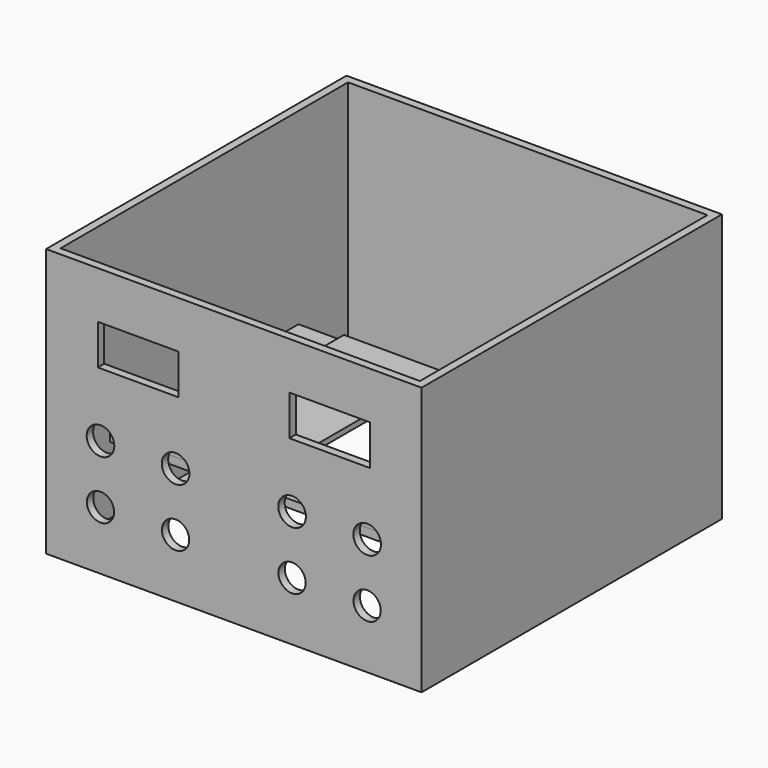
from build123d import *

# Parameters (mm, degrees)
F0_W     = 140
F0_H     = 140
F0_R     = 1.8690060527
F0_W_2   = 7
F0_H_2   = 71.0464436561
F0_H_3   = 8.3500510082
F1_DEPTH = 2
F2_START = 2
F2_DEPTH = 98
F3_START = 27
F0_W_3   = 120
F0_R_2   = 2.6331216757
F0_R_3   = 2.3469079545
F3_DEPTH = 3
F4_W     = 30
F4_H     = 15
F4_R     = 5.151771656
F4_R_2   = 5.0827381366
F5_DEPTH = 3
F6_W     = 36.8634238839
F6_H     = 87.7465456724
F7_DEPTH = 2


with BuildPart() as f1:
    # F0 (on Top) → F1 (new body)
    with BuildSketch(Plane.XY):
        Rectangle(F0_W, F0_H)
        Polygon((67, 67), (67, 43.8732728362), (67, 35.523221828), (67, -35.523221828), (67, -43.8732728362), (67, -67), (-67, -67), (-67, -43.8732728362), (-67, -35.523221828), (-67, 35.523221828), (-67, 43.8732728362), (-67, 67), align=None, mode=Mode.SUBTRACT)
        Polygon((-60, 60), (60, 60), (60, 43.8732728362), (67, 43.8732728362), (67, 67), (-67, 67), (-67, 43.8732728362), (-60, 43.8732728362), align=None)
        with Locations((-62.5321604311, 62.5321604311)):
            Circle(F0_R, mode=Mode.SUBTRACT)
        with Locations((62.5321604311, 62.5321604311)):
            Circle(F0_R, mode=Mode.SUBTRACT)
        Polygon((67, -43.8732728362), (60, -43.8732728362), (60, -60), (-60, -60), (-60, -43.8732728362), (-67, -43.8732728362), (-67, -67), (67, -67), align=None)
        with Locations((-62.5321604311, -62.5321604311)):
            Circle(F0_R, mode=Mode.SUBTRACT)
        with Locations((62.5321604311, -62.5321604311)):
            Circle(F0_R, mode=Mode.SUBTRACT)
        with Locations((-63.5, 0)):
            Rectangle(F0_W_2, F0_H_2)
        with Locations((63.5, 0)):
            Rectangle(F0_W_2, F0_H_2)
        with Locations((-63.5, 39.6982473321)):
            Rectangle(F0_W_2, F0_H_3)
        with Locations((-63.5, -39.6982473321)):
            Rectangle(F0_W_2, F0_H_3)
        with Locations((63.5, -39.6982473321)):
            Rectangle(F0_W_2, F0_H_3)
        with Locations((63.5, 39.6982473321)):
            Rectangle(F0_W_2, F0_H_3)
    extrude(amount=F1_DEPTH)

    # F0 (on Top) → F2 (join)
    with BuildSketch(Plane.XY.offset(F2_START)):
        Rectangle(F0_W, F0_H)
        Polygon((67, 67), (67, 43.8732728362), (67, 35.523221828), (67, -35.523221828), (67, -43.8732728362), (67, -67), (-67, -67), (-67, -43.8732728362), (-67, -35.523221828), (-67, 35.523221828), (-67, 43.8732728362), (-67, 67), align=None, mode=Mode.SUBTRACT)
    extrude(amount=F2_DEPTH)

    # F0 (on Top) → F3 (join)
    with BuildSketch(Plane.XY.offset(F3_START)):
        with Locations((0, 39.6982473321)):
            Rectangle(F0_W_3, F0_H_3)
        with Locations((-39.8830659688, 39.6982473321)):
            Circle(F0_R_2, mode=Mode.SUBTRACT)
        with Locations((-23.3422257006, 39.6982473321)):
            Circle(F0_R_3, mode=Mode.SUBTRACT)
        with Locations((23.3422257006, 39.6982473321)):
            Circle(F0_R_3, mode=Mode.SUBTRACT)
        with Locations((39.8830659688, 39.6982473321)):
            Circle(F0_R_2, mode=Mode.SUBTRACT)
        with Locations((-63.5, 39.6982473321)):
            Rectangle(F0_W_2, F0_H_3)
        with Locations((63.5, 39.6982473321)):
            Rectangle(F0_W_2, F0_H_3)
        with Locations((63.5, -39.6982473321)):
            Rectangle(F0_W_2, F0_H_3)
        with Locations((0, -39.6982473321)):
            Rectangle(F0_W_3, F0_H_3)
        with Locations((-39.8830659688, -39.6982473321)):
            Circle(F0_R_2, mode=Mode.SUBTRACT)
        with Locations((-23.3422257006, -39.6982473321)):
            Circle(F0_R_3, mode=Mode.SUBTRACT)
        with Locations((23.3422257006, -39.6982473321)):
            Circle(F0_R_3, mode=Mode.SUBTRACT)
        with Locations((39.8830659688, -39.6982473321)):
            Circle(F0_R_2, mode=Mode.SUBTRACT)
        with Locations((-63.5, -39.6982473321)):
            Rectangle(F0_W_2, F0_H_3)
    extrude(amount=F3_DEPTH)

    # F4 (on face) → F5 (cut, through all)
    with BuildSketch(Plane.XZ.offset(70)):
        with Locations((-35.7132482901, 74.8899433017)):
            Rectangle(F4_W, F4_H)
        with Locations((35.7132482901, 74.8899433017)):
            Rectangle(F4_W, F4_H)
        with Locations((49.7132482901, 43.6362959445)):
            Circle(F4_R)
        with Locations((21.7132482901, 43.6362959445)):
            Circle(F4_R)
        with Locations((21.7132482901, 21.8749996275)):
            Circle(F4_R_2)
        with Locations((49.7132482901, 21.8749996275)):
            Circle(F4_R_2)
        with Locations((-21.7132482901, 43.6362959445)):
            Circle(F4_R)
        with Locations((-49.7132482901, 43.6362959445)):
            Circle(F4_R)
        with Locations((-49.7132482901, 21.8749996275)):
            Circle(F4_R_2)
        with Locations((-21.7132482901, 21.8749996275)):
            Circle(F4_R_2)
    extrude(amount=-F5_DEPTH, mode=Mode.SUBTRACT)


with BuildPart() as f7:
    # F6 (on face) → F7 (new body)
    with BuildSketch(Plane.XY.offset(30)):
        with Locations((-31.6126458347, 0)):
            Rectangle(F6_W, F6_H)
    extrude(amount=F7_DEPTH)


with BuildPart() as f8_1:
    # F8: instance of F7
    add(f7.part.mirror(Plane.YZ))


solid = Compound([f1.part, f7.part, f8_1.part])
